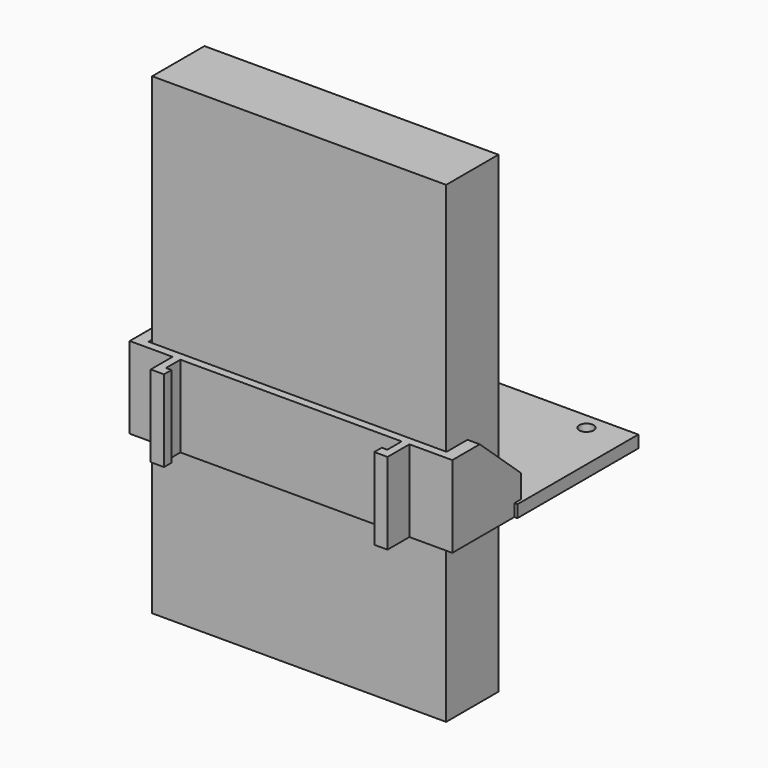
from build123d import *

# Parameters (mm, degrees)
F0_W           = 80.5
F0_H           = 37
F0_R           = 1.75
F1_DEPTH       = 3
F2_W           = 73
F2_H           = 17
F3_DEPTH       = 20
F5_DEPTH       = 79
F6_R           = 14
F7_DEPTH       = 25
F8_R           = 3.15
F9_DEPTH       = 25
F10_W          = 72
F10_H          = 16
F11_DEPTH      = 38.6
F11_DEPTH_BACK = 77.2


with BuildPart() as f1:
    # F0 (on Top) → F1 (new body)
    with BuildSketch(Plane.XY):
        Rectangle(F0_W, F0_H)
        with Locations((-30.75, -9.3)):
            Circle(F0_R, mode=Mode.SUBTRACT)
        with Locations((30.75, -9.3)):
            Circle(F0_R, mode=Mode.SUBTRACT)
        with Locations((-30.75, 14.5)):
            Circle(F0_R, mode=Mode.SUBTRACT)
        with Locations((30.75, 14.5)):
            Circle(F0_R, mode=Mode.SUBTRACT)
    extrude(amount=F1_DEPTH)

    # F2 (on Top) → F3 (join)
    with BuildSketch(Plane.XY):
        Polygon((39.5, -37.5), (39.5, -16.5), (-39.5, -16.5), (-39.5, -37.5), (-29, -37.5), (-27.1, -37.5), (27.1, -37.5), (29, -37.5), align=None)
        with Locations((0, -27)):
            Rectangle(F2_W, F2_H, mode=Mode.SUBTRACT)
        Polygon((-27.1, -37.5), (-29, -37.5), (-29, -44.2), (-25.75, -44.2), (-25.75, -41.9), (-27.1, -41.9), align=None)
        Polygon((29, -44.2), (29, -37.5), (27.1, -37.5), (27.1, -41.9), (25.75, -41.9), (25.75, -44.2), align=None)
    extrude(amount=F3_DEPTH)

    # F4 (on face) → F5 (cut, through all)
    with BuildSketch(Plane.YZ.offset(39.5)):
        Polygon((-16.5, 8.698019), (-16.5, 20), (-29.098514, 20), align=None)
    extrude(amount=-F5_DEPTH, mode=Mode.SUBTRACT)

    # F6 (on face) → F7 (cut)
    with BuildSketch(Plane(origin=(0, 0, 0), x_dir=(1, 0, 0), z_dir=(0, 0, -1))):
        with Locations((0, -2.6)):
            Circle(F6_R)
    extrude(amount=-F7_DEPTH, mode=Mode.SUBTRACT)

    # F8 (on face) → F9 (cut)
    with BuildSketch(Plane.XY.offset(3)):
        with Locations((30.75, -9.3)):
            Circle(F8_R)
        with Locations((-30.75, -9.3)):
            Circle(F8_R)
    extrude(amount=F9_DEPTH, mode=Mode.SUBTRACT)


with BuildPart() as f11:
    # F10 (on face) → F11 (new body, two sides)
    with BuildSketch(Plane(origin=(0, 0, 0), x_dir=(1, 0, 0), z_dir=(0, 0, -1))) as f11_sk:
        with Locations((0, 27)):
            Rectangle(F10_W, F10_H)
    extrude(amount=F11_DEPTH)
    extrude(f11_sk.sketch, amount=-F11_DEPTH_BACK)


solid = Compound([f1.part, f11.part])
